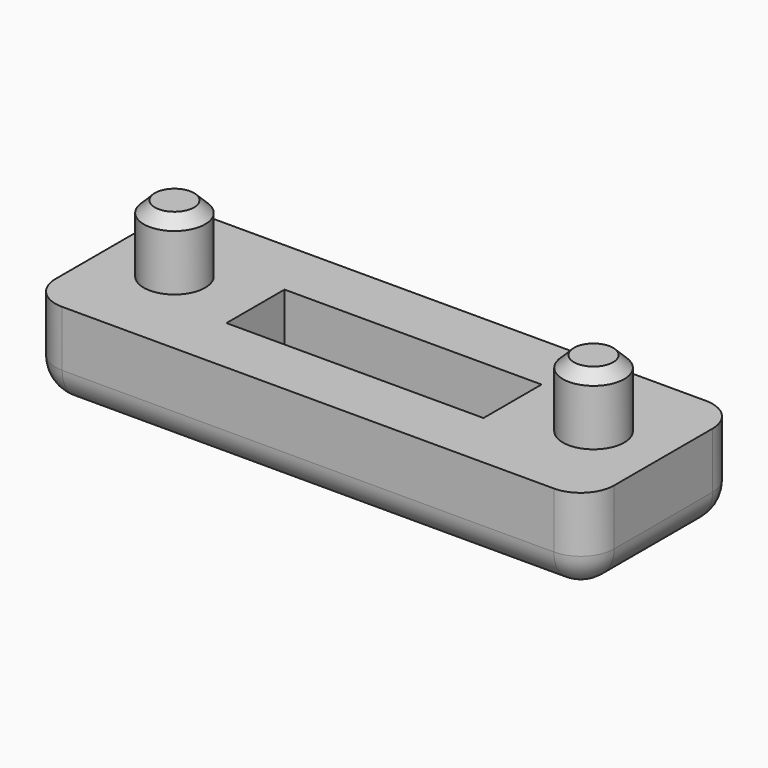
from build123d import *

# Parameters (mm, degrees)
F0_W     = 50
F0_H     = 17
F1_DEPTH = 8
F2_R     = 2.75
F3_DEPTH = 6
F2_W     = 23
F2_H     = 6.494846
F4_DEPTH = 5
F5_R     = 3
F6_SIZE  = 1


with BuildPart() as f1:
    # F0 (on Top) → F1 (new body)
    with BuildSketch(Plane.XY):
        Rectangle(F0_W, F0_H)
    extrude(amount=F1_DEPTH)

    # F2 (on face) → F3 (join)
    with BuildSketch(Plane.XY.offset(8)):
        with Locations((-18.75, 0)):
            Circle(F2_R)
        with Locations((18.75, 0)):
            Circle(F2_R)
    extrude(amount=F3_DEPTH)

    # F2 (on face) → F4 (cut)
    with BuildSketch(Plane.XY.offset(8)):
        Rectangle(F2_W, F2_H)
    extrude(amount=-F4_DEPTH, mode=Mode.SUBTRACT)

    # F5
    f5_edges = [f1.edges().sort_by_distance(p)[0] for p in [
        (-25, -8.5, 4),
        (25, -8.5, 4),
        (-25, 8.5, 4),
        (25, 8.5, 4),
        (0, 8.5, 0),
        (25, 0, 0),
        (0, -8.5, 0),
        (-25, 0, 0),
    ]]
    fillet(f5_edges, radius=F5_R)

    # F6
    f6_edges = [f1.edges().sort_by_distance(p)[0] for p in [
        (-21.5, 0, 14),
        (16, 0, 14),
    ]]
    chamfer(f6_edges, length=F6_SIZE)


solid = f1.part
